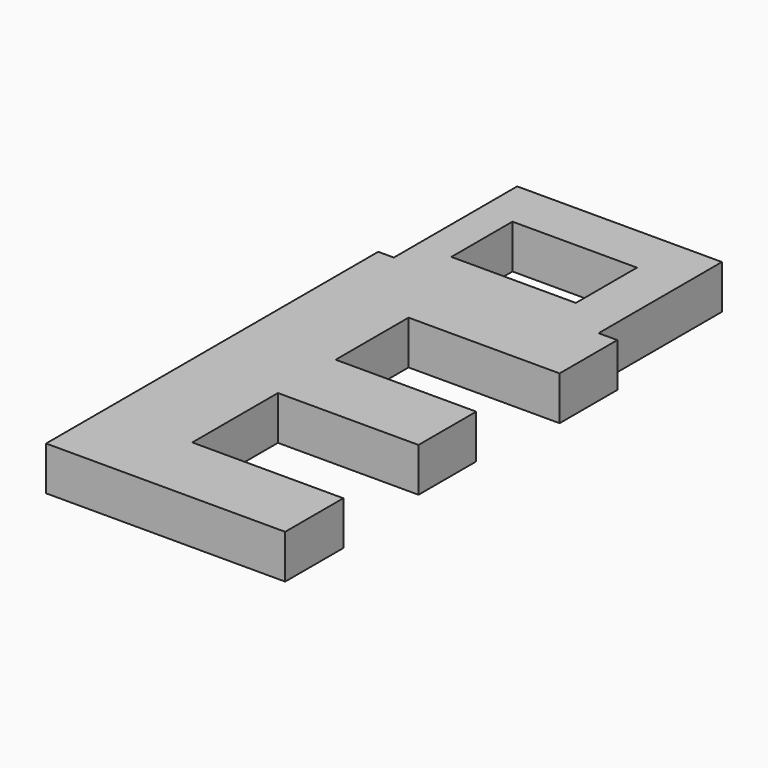
from build123d import *

# Parameters (mm, degrees)
F0_W     = 4.4058337156
F0_H     = 0.9129986805
F0_W_2   = 4.9275004491
F1_DEPTH = 2


with BuildPart() as f1:
    # F0 (on Top) → F1 (new body)
    with BuildSketch(Plane.XY):
        with Locations((5.2970831422, -0.618056921)):
            Rectangle(F0_W, F0_H)
        Polygon((7.5, -1.0745562613), (3.0941662844, -1.0745562613), (3.0941662844, -0.1615575808), (2.381938691, -0.1615575808), (2.381938691, -19.0886495443), (13.2808616404, -19.0886495443), (13.2808616404, -15.7746478873), (6.396023198, -15.7746478873), (6.396023198, -10.8947804474), (12.8044739022, -10.8947804474), (12.8044739022, -7.6056338028), (6.396023198, -7.6056338028), (6.396023198, -3.4507042254), (13.2808616404, -3.4507042254), (13.2808616404, -0.1615575808), (12.4275004491, -0.1615575808), (12.4275004491, -1.0745562613), align=None)
        with Locations((9.9637502246, -0.618056921)):
            Rectangle(F0_W_2, F0_H)
        Polygon((3.0941662844, 6.8657421507), (3.0941662844, -0.1615575808), (7.5, -0.1615575808), (7.5, 1.1542992434), (4.6620512009, 1.1542992434), (4.6620512009, 4.636886646), (7.5, 4.636886646), (7.5, 6.8657421507), align=None)
        Polygon((7.5, 1.1542992434), (7.5, -0.1615575808), (12.4275004491, -0.1615575808), (12.4275004491, 6.8657421507), (7.5, 6.8657421507), (7.5, 4.636886646), (10.3379487991, 4.636886646), (10.3379487991, 1.1542992434), align=None)
    extrude(amount=F1_DEPTH)


solid = f1.part
